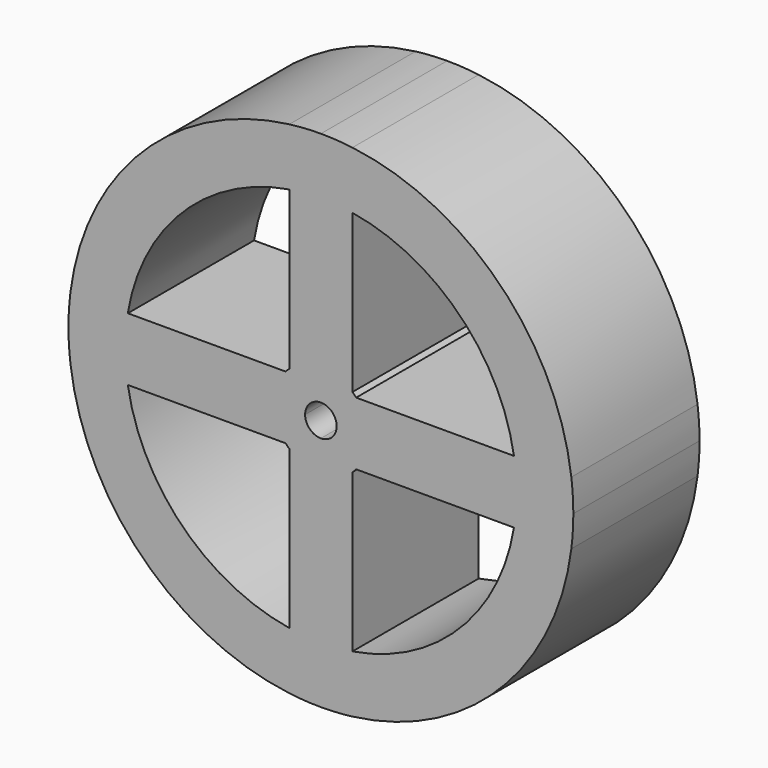
from build123d import *

# Parameters (mm, degrees)
F1_DEPTH = 635


with BuildPart() as f1:
    # F0 (on Front) → F1 (new body)
    with BuildSketch(Plane.XZ):
        with BuildLine():
            Line((0, -1016), (0, -63.5))
            ThreePointArc((0, -63.5), (-44.901281, -44.901281), (-63.5, 0))
            Line((-63.5, 0), (-1016, 0))
            ThreePointArc((-1016, 0), (-1014.005855, -63.624879), (-1008.03125, -127))
            ThreePointArc((-1008.03125, -127), (-718.42049, -718.42049), (-127, -1008.03125))
            ThreePointArc((-127, -1008.03125), (-63.624879, -1014.005855), (0, -1016))
        make_face()
        with BuildLine():
            ThreePointArc((-141.990317, -127), (-134.703842, -134.703842), (-127, -141.990317))
            Line((-127, -141.990317), (-127, -777.090574))
            ThreePointArc((-127, -777.090574), (-556.77588, -556.77588), (-777.090574, -127))
            Line((-777.090574, -127), (-141.990317, -127))
        make_face(mode=Mode.SUBTRACT)
        with BuildLine():
            ThreePointArc((1008.03125, -127), (1014.005855, -63.624879), (1016, 0))
            Line((1016, 0), (63.5, 0))
            ThreePointArc((63.5, 0), (44.901281, -44.901281), (0, -63.5))
            Line((0, -63.5), (0, -1016))
            ThreePointArc((0, -1016), (63.624879, -1014.005855), (127, -1008.03125))
            ThreePointArc((127, -1008.03125), (718.42049, -718.42049), (1008.03125, -127))
        make_face()
        with BuildLine():
            Line((127, -777.090574), (127, -141.990317))
            ThreePointArc((127, -141.990317), (134.703842, -134.703842), (141.990317, -127))
            Line((141.990317, -127), (777.090574, -127))
            ThreePointArc((777.090574, -127), (556.77588, -556.77588), (127, -777.090574))
        make_face(mode=Mode.SUBTRACT)
        with BuildLine():
            ThreePointArc((-63.5, 0), (-44.901281, 44.901281), (0, 63.5))
            Line((0, 63.5), (0, 1016))
            ThreePointArc((0, 1016), (-63.624879, 1014.005855), (-127, 1008.03125))
            ThreePointArc((-127, 1008.03125), (-718.42049, 718.42049), (-1008.03125, 127))
            ThreePointArc((-1008.03125, 127), (-1014.005855, 63.624879), (-1016, 0))
            Line((-1016, 0), (-63.5, 0))
        make_face()
        with BuildLine():
            Line((-127, 777.090574), (-127, 141.990317))
            ThreePointArc((-127, 141.990317), (-134.703842, 134.703842), (-141.990317, 127))
            Line((-141.990317, 127), (-777.090574, 127))
            ThreePointArc((-777.090574, 127), (-556.77588, 556.77588), (-127, 777.090574))
        make_face(mode=Mode.SUBTRACT)
        with BuildLine():
            Line((63.5, 0), (1016, 0))
            ThreePointArc((1016, 0), (1014.005855, 63.624879), (1008.03125, 127))
            ThreePointArc((1008.03125, 127), (718.42049, 718.42049), (127, 1008.03125))
            ThreePointArc((127, 1008.03125), (63.624879, 1014.005855), (0, 1016))
            Line((0, 1016), (0, 63.5))
            ThreePointArc((0, 63.5), (44.901281, 44.901281), (63.5, 0))
        make_face()
        with BuildLine():
            Line((777.090574, 127), (141.990317, 127))
            ThreePointArc((141.990317, 127), (134.703842, 134.703842), (127, 141.990317))
            Line((127, 141.990317), (127, 777.090574))
            ThreePointArc((127, 777.090574), (556.77588, 556.77588), (777.090574, 127))
        make_face(mode=Mode.SUBTRACT)
    extrude(amount=F1_DEPTH)


solid = f1.part
